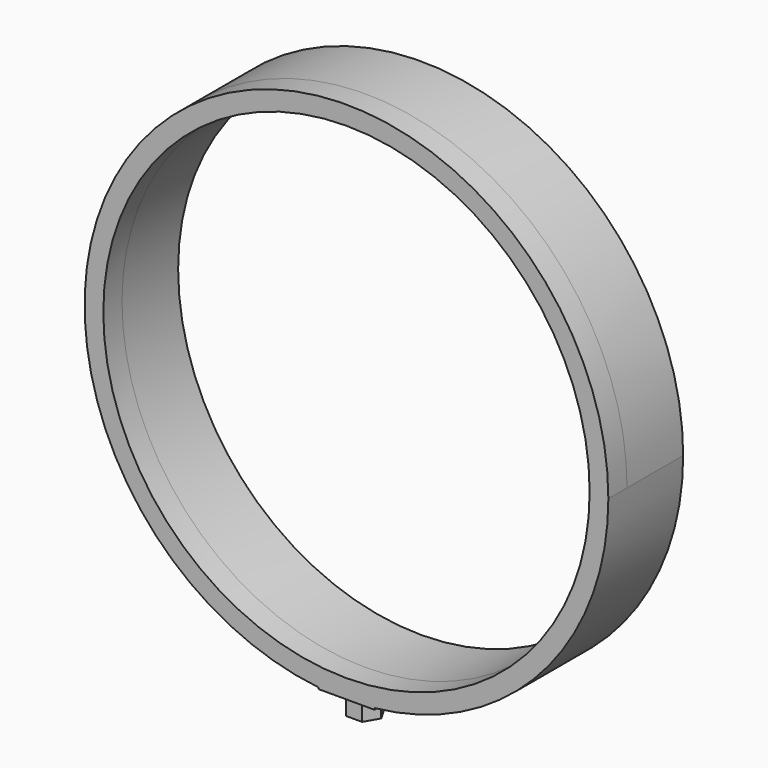
from build123d import *

# Parameters (mm, degrees)
F1_DEPTH      = 15
F1_DEPTH_BACK = 5
F2_DEPTH      = 5
F2_DEPTH_BACK = 15
F4_DEPTH      = 4.5


with BuildPart() as f1:
    # F0 (on Front) → F1 (new body, two sides)
    with BuildSketch(Plane.XZ) as f1_sk:
        with BuildLine():
            Line((-6, -52), (0, -52))
            Line((0, -52), (6, -52))
            Line((6, -52), (6, -55.6776436283))
            ThreePointArc((6, -55.6776436283), (41.665333312, -37.4165738677), (56, 0))
            ThreePointArc((56, 0), (-37.4165738677, 41.665333312), (-6, -55.6776436283))
            Line((-6, -55.6776436283), (-6, -52))
        make_face()
        with BuildLine():
            ThreePointArc((0, -52), (-36.7695526217, 36.7695526217), (52, 0))
            ThreePointArc((52, 0), (36.7695526217, -36.7695526217), (0, -52))
        make_face(mode=Mode.SUBTRACT)
        with BuildLine():
            Line((6, -52), (0, -52))
            Line((0, -52), (-6, -52))
            Line((-6, -52), (-6, -55.6776436283))
            ThreePointArc((-6, -55.6776436283), (-3.0043266147, -55.919352836), (0, -56))
            ThreePointArc((0, -56), (3.0043266147, -55.919352836), (6, -55.6776436283))
            Line((6, -55.6776436283), (6, -52))
        make_face()
    extrude(amount=-F1_DEPTH)
    extrude(f1_sk.sketch, amount=F1_DEPTH_BACK)

    # F0 (on Front) → F2 (join, two sides)
    with BuildSketch(Plane.XZ) as f2_sk:
        with BuildLine():
            Line((6, -56), (6, -55.6776436283))
            ThreePointArc((6, -55.6776436283), (3.0043266147, -55.919352836), (0, -56))
            Line((0, -56), (6, -56))
        make_face()
        with BuildLine():
            ThreePointArc((0, -56), (-3.0043266147, -55.919352836), (-6, -55.6776436283))
            Line((-6, -55.6776436283), (-6, -56))
            Line((-6, -56), (0, -56))
        make_face()
    extrude(amount=F2_DEPTH)
    extrude(f2_sk.sketch, amount=-F2_DEPTH_BACK)

    # F3 (on face) → F4 (join)
    with BuildSketch(Plane(origin=(0, 0, -56), x_dir=(1, 0, 0), z_dir=(0, 0, -1))):
        Polygon((-1.7145, 2.9696011096), (-3.429, 0), (-1.7145, -2.9696011096), (1.7145, -2.9696011096), (3.429, 0), (1.7145, 2.9696011096), align=None)
    extrude(amount=F4_DEPTH)


solid = f1.part
